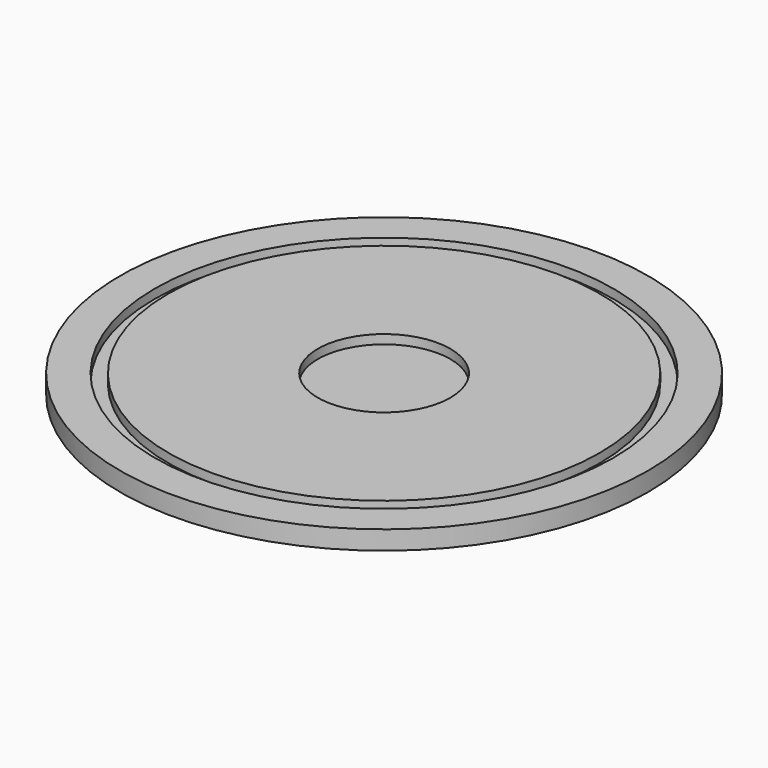
from build123d import *

# Parameters (mm, degrees)
F0_R     = 44.45
F1_DEPTH = 3.175
F2_R     = 38.608
F2_R_2   = 36.322
F2_R_3   = 11.1633
F3_DEPTH = 1.524


with BuildPart() as f1:
    # F0 (on Top) → F1 (new body)
    with BuildSketch(Plane.XY):
        Circle(F0_R)
    extrude(amount=F1_DEPTH)

    # F2 (on face) → F3 (cut)
    with BuildSketch(Plane.XY.offset(3.175)):
        Circle(F2_R)
        Circle(F2_R_2, mode=Mode.SUBTRACT)
        Circle(F2_R_3)
    extrude(amount=-F3_DEPTH, mode=Mode.SUBTRACT)


solid = f1.part
